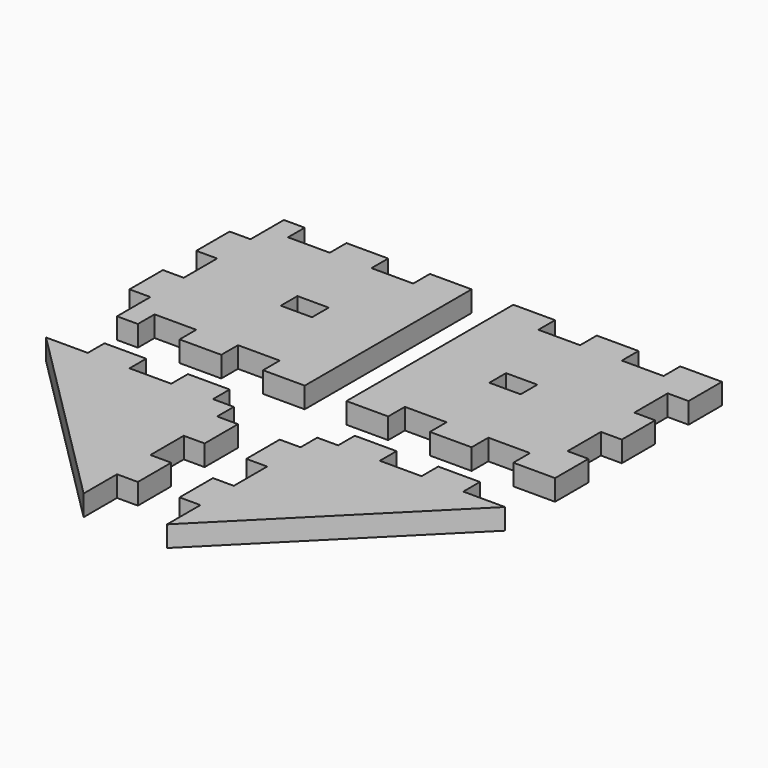
from build123d import *

# Parameters (mm, degrees)
F0_DEPTH = 2
F1_W     = 3
F1_H     = 2
F4_DEPTH = 2
F2_DEPTH = 25


with BuildPart() as f0:
    # F3 (on Top) → F0 (new body)
    with BuildSketch(Plane.XY):
        Polygon((-6, 0), (-2, 0), (-2, 20), (-6, 20), (-6, 18), (-10, 18), (-10, 20), (-14, 20), (-14, 18), (-18, 18), (-18, 20), (-20, 20), (-20, 16), (-22, 16), (-22, 12), (-20, 12), (-20, 8), (-22, 8), (-22, 4), (-20, 4), (-20, 0), (-18, 0), (-18, 2), (-14, 2), (-14, 0), (-10, 0), (-10, 2), (-6, 2), align=None)
        Polygon((2, 20), (2, 0), (6, 0), (6, 2), (10, 2), (10, 0), (14, 0), (14, 2), (18, 2), (18, 0), (22, 0), (22, 4), (20, 4), (20, 8), (22, 8), (22, 12), (20, 12), (20, 16), (22, 16), (22, 20), (18, 20), (18, 18), (14, 18), (14, 20), (10, 20), (10, 18), (6, 18), (6, 20), align=None)
        Polygon((-4, -8), (-4, -6), (-6, -6), (-6, -4), (-10, -4), (-10, -6), (-14, -6), (-14, -4), (-18, -4), (-18, -6), (-22, -6), (-4, -24), (-4, -20), (-2, -20), (-2, -16), (-4, -16), (-4, -12), (-2, -12), (-2, -8), align=None)
        Polygon((6, -6), (4, -6), (4, -8), (2, -8), (2, -12), (4, -12), (4, -16), (2, -16), (2, -20), (4, -20), (4, -24), (22, -6), (18, -6), (18, -4), (14, -4), (14, -6), (10, -6), (10, -4), (6, -4), align=None)
    extrude(amount=F0_DEPTH)

    # F1 (on Top) → F4 (cut)
    with BuildSketch(Plane.XY):
        with Locations((10, 10)):
            Rectangle(F1_W, F1_H)
    extrude(amount=F4_DEPTH, mode=Mode.SUBTRACT)

    # F1 (on Top) → F2 (cut)
    with BuildSketch(Plane.XY):
        with Locations((-10, 10)):
            Rectangle(F1_W, F1_H)
    extrude(amount=F2_DEPTH, mode=Mode.SUBTRACT)


solid = f0.part
